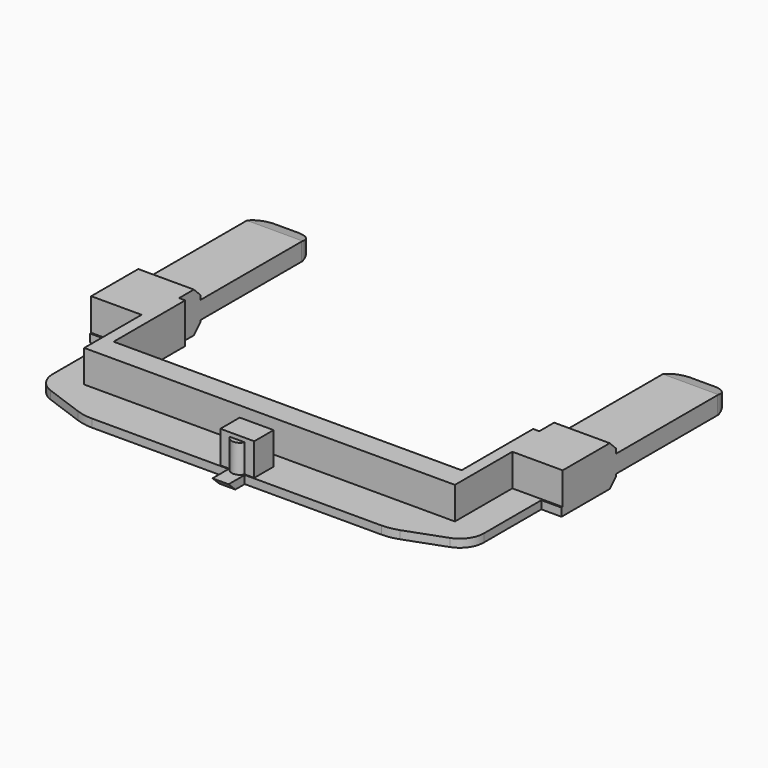
from build123d import *

# Parameters (mm, degrees)
SKETCH_W             = 58.5
SKETCH_H             = 42.5
PAD_DEPTH            = 5
SKETCH002_W          = 43.18
SKETCH002_H          = 32.1
POCKET_DEPTH         = 5.001
SKETCH003_W          = 44.7
SKETCH003_H          = 21
POCKET001_DEPTH      = 5.001
POCKET004_DEPTH      = 4
SKETCH009_W          = 4.2
SKETCH009_H          = 3
PAD002_DEPTH         = 4
POCKET017_DEPTH      = 29.251
POCKET017_DEPTH_BACK = 29.251
SKETCH008_R          = 1
PAD016_DEPTH         = 3.5
POCKET018_DEPTH      = 5.001
FILLET_R             = 2
FILLET001_R          = 3
FILLET002_R          = 6
POCKET020_DEPTH      = 30.251
POCKET020_DEPTH_BACK = 28.251
CHAMFER_SIZE         = 1
BODY_PLACEMENT_ANGLE = 180


with BuildPart() as part:
    # Sketch → Pad (new body)
    with BuildSketch(Plane.XY):
        with Locations((0, 18.75)):
            Rectangle(SKETCH_W, SKETCH_H)
    extrude(amount=PAD_DEPTH)

    # Sketch002 → Pocket (cut, through all)
    with BuildSketch(Plane.XY):
        with Locations((0, 23.95)):
            Rectangle(SKETCH002_W, SKETCH002_H)
    extrude(amount=POCKET_DEPTH, mode=Mode.SUBTRACT)

    # Sketch003 → Pocket001 (cut, through all)
    with BuildSketch(Plane.XY):
        with Locations((0, 29.5)):
            Rectangle(SKETCH003_W, SKETCH003_H)
    extrude(amount=POCKET001_DEPTH, mode=Mode.SUBTRACT)

    # Sketch006 → Pocket004 (cut)
    with BuildSketch(Plane.XY):
        Polygon((-30, 14), (-23, 14), (-23, 5.1), (23, 5.1), (23, 14), (30, 14), (30, -2.5), (-30, -2.5), align=None)
    extrude(amount=POCKET004_DEPTH, mode=Mode.SUBTRACT)

    # Sketch009 → Pad002 (join)
    with BuildSketch(Plane(origin=(0, 0, 4), x_dir=(1, 0, 0), z_dir=(0, 0, -1))):
        with Locations((0, -1.6)):
            Rectangle(SKETCH009_W, SKETCH009_H)
    extrude(amount=PAD002_DEPTH)

    # Sketch005 → Pocket017 (cut, two sides)
    with BuildSketch(Plane.YZ) as pocket017_sk:
        Polygon((22.3, 7.55), (22.3, 3.75), (38.15, 3.75), (40, 3.250139), (40, 2.050139), (38.15, 1.55), (22.3, 1.55), (22.3, -2.25), (45.66, -2.25), (45.66, 7.55), align=None)
    extrude(amount=-POCKET017_DEPTH, mode=Mode.SUBTRACT)
    extrude(pocket017_sk.sketch, amount=POCKET017_DEPTH_BACK, mode=Mode.SUBTRACT)

    # Sketch008 (on Face13 of Pocket017) → Pad016 (join)
    with BuildSketch(Plane(origin=(0, 0, 4), x_dir=(1, 0, 0), z_dir=(0, 0, -1))):
        with Locations((0, -0.5)):
            Circle(SKETCH008_R)
    extrude(amount=PAD016_DEPTH)

    # Sketch034 → Pocket018 (cut, through all)
    with BuildSketch(Plane.XY):
        Polygon((-19, 0), (-1, 0), (-1, -3), (1, -3), (1, 0), (19, 0), (26.75, 2.820769), (26.75, 13.820769), (30, 13.820769), (30, -4), (-30, -4), (-30, 13.820769), (-26.75, 13.820769), (-26.75, 2.820769), align=None)
    extrude(amount=POCKET018_DEPTH, mode=Mode.SUBTRACT)

    # Fillet
    fillet_edges = [part.edges().sort_by_distance(p)[0] for p in [
        (29.25, 40, 2.650139),
        (22.35, 40, 2.650139),
        (-22.35, 40, 2.650139),
        (-29.25, 40, 2.650139),
    ]]
    fillet(fillet_edges, radius=FILLET_R)

    # Fillet001
    fillet001_edges = [part.edges().sort_by_distance(p)[0] for p in [
        (26.75, 2.820769, 4.5),
        (-26.75, 2.820769, 4.5),
    ]]
    fillet(fillet001_edges, radius=FILLET001_R)

    # Fillet002
    fillet002_edges = [part.edges().sort_by_distance(p)[0] for p in [
        (-19, 0, 4.5),
        (19, 0, 4.5),
    ]]
    fillet(fillet002_edges, radius=FILLET002_R)

    # Sketch038 (on Face7 of Fillet002) → Pocket020 (cut, two sides)
    with BuildSketch(Plane.YZ.offset(1)) as pocket020_sk:
        Polygon((-2.5, 4), (-1.461179, 5), (-1.461179, 5.705107), (-3.685712, 5.705107), (-3.685712, 4.047004), align=None)
    extrude(amount=-POCKET020_DEPTH, mode=Mode.SUBTRACT)
    extrude(pocket020_sk.sketch, amount=POCKET020_DEPTH_BACK, mode=Mode.SUBTRACT)

    # Chamfer
    chamfer_edges = [part.edges().sort_by_distance(p)[0] for p in [
        (-25.8, 22.3, 0),
        (-25.8, 22.3, 5),
        (25.8, 22.3, 5),
        (25.8, 22.3, 0),
    ]]
    chamfer(chamfer_edges, length=CHAMFER_SIZE)


with BuildPart() as part_1:
    # Body placement: moved
    add(part.part.moved(Location((0.4, -26.3, 8.4))).rotate(Axis((0.4, -26.3, 8.4), (0, 1, 0)), BODY_PLACEMENT_ANGLE))


solid = part_1.part
